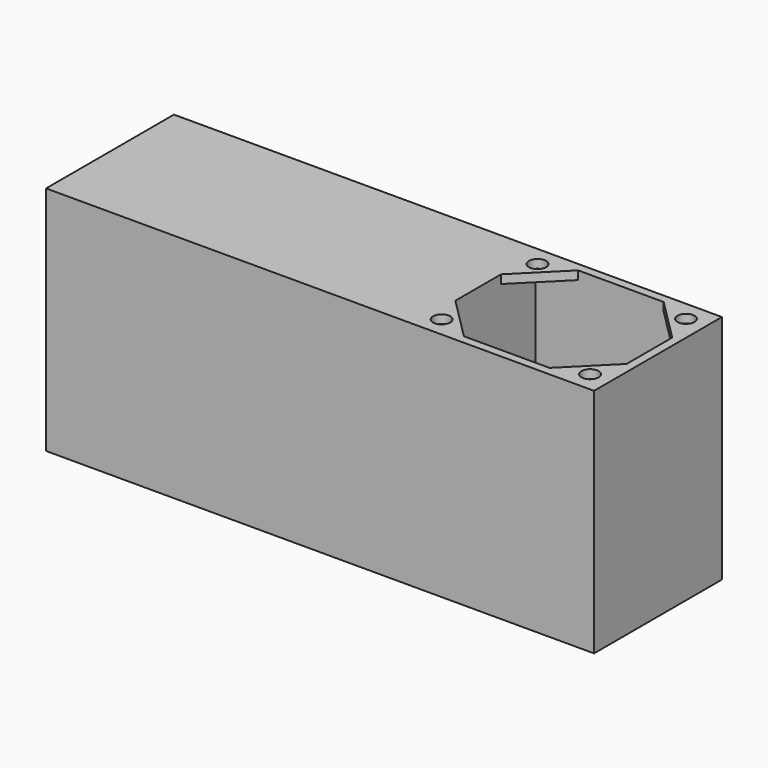
from build123d import *

# Parameters (mm, degrees)
STRUCTURESKETCH001_W      = 192
STRUCTURESKETCH001_H      = 56
MAINSTRUCTURE001_DEPTH    = 81
OBJ1           = 3
CENTERPOCKET001_DEPTH     = 81
OBJ2       = 60
OBJ3       = 50
OBJ4 = 78


with BuildPart() as part:
    # StructureSketch001 → MainStructure001 (new body)
    with BuildSketch(Plane.XY):
        Rectangle(STRUCTURESKETCH001_W, STRUCTURESKETCH001_H)
    extrude(amount=MAINSTRUCTURE001_DEPTH)

    with BuildSketch(Plane(origin=(63, 0, 0), x_dir=(1, 0, 0), z_dir=(0, 0, 1))):
        with Locations((-26, 21)):
            Circle(OBJ1)
        with Locations((26, 21)):
            Circle(OBJ1)
        with Locations((26, -21)):
            Circle(OBJ1)
        with Locations((-26, -21)):
            Circle(OBJ1)
        Polygon((-15, 25), (15, 25), (30, 10), (30, -10), (15, -25), (-15, -25), (-30, -10), (-30, 10), align=None)
    extrude(amount=CENTERPOCKET001_DEPTH, mode=Mode.SUBTRACT)

    with BuildSketch(Plane(origin=(63, 0, 0), x_dir=(1, 0, 0), z_dir=(0, 0, 1))):
        Rectangle(OBJ2, OBJ3)
    extrude(amount=OBJ4, mode=Mode.SUBTRACT)


solid = part.part
